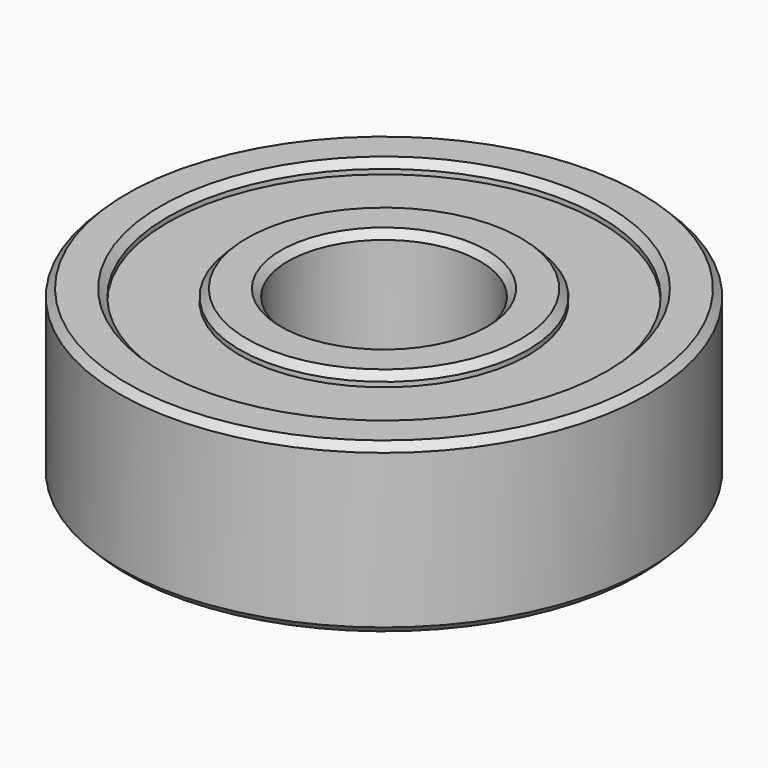
from build123d import *

# Parameters (mm, degrees)
F0_R     = 11
F0_R_2   = 9
F1_DEPTH = 3.5
F0_R_3   = 6
F0_R_4   = 4
F2_DEPTH = 3
F3_SIZE  = 0.3


with BuildPart() as f1:
    # F0 (on Top) → F1 (new body, symmetric)
    with BuildSketch(Plane.XY):
        Circle(F0_R)
        Circle(F0_R_2, mode=Mode.SUBTRACT)
    extrude(amount=F1_DEPTH, both=True)



with BuildPart() as f1b:
    # F0 (on Top) → F1, piece 2 (new body, symmetric)
    with BuildSketch(Plane.XY):
        Circle(F0_R_3)
        Circle(F0_R_4, mode=Mode.SUBTRACT)
    extrude(amount=F1_DEPTH, both=True)


with BuildPart() as f1_1:
    add(f1.part)

    add(f1b.part)  # F2 merges F1b
    # F0 (on Top) → F2 (join, symmetric)
    with BuildSketch(Plane.XY):
        Circle(F0_R_2)
        Circle(F0_R_3, mode=Mode.SUBTRACT)
    extrude(amount=F2_DEPTH, both=True)

    # F3
    f3_edges = [f1_1.edges().sort_by_distance(p)[0] for p in [
        (-11, 0, 3.5),
        (-4, 0, 3.5),
        (-9, 0, 3.5),
        (-6, 0, 3.5),
        (-11, 0, -3.5),
        (-9, 0, -3.5),
        (-6, 0, -3.5),
        (-4, 0, -3.5),
    ]]
    chamfer(f3_edges, length=F3_SIZE)


solid = f1_1.part
